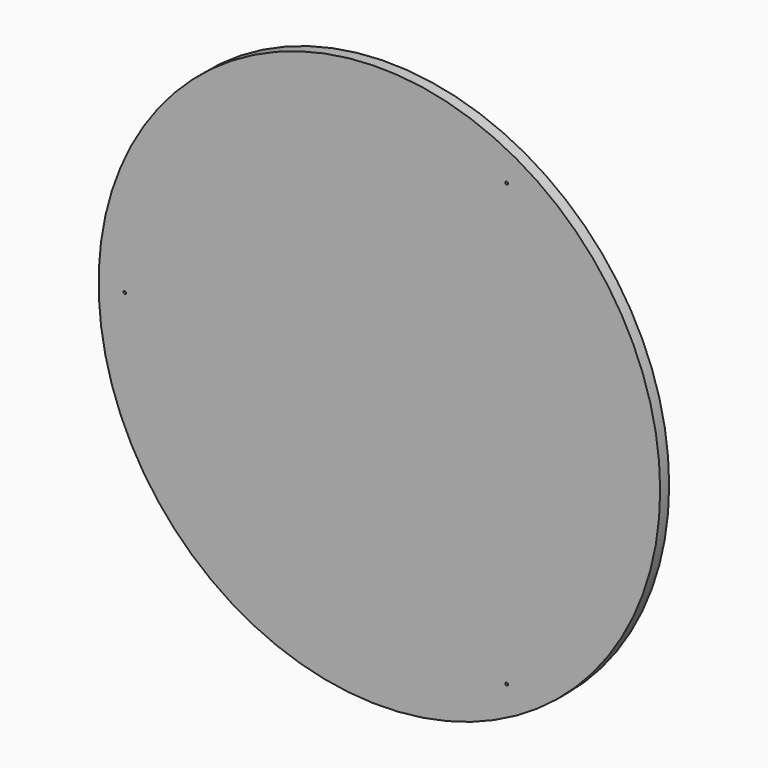
from build123d import *

# Parameters (mm, degrees)
F0_R     = 75
F0_R_2   = 0.35
F1_DEPTH = 3


with BuildPart() as f1:
    # F0 (on Front) → F1 (new body)
    with BuildSketch(Plane.XZ):
        with Locations((-32.77367, 12.581361)):
            Circle(F0_R)
        with Locations((1.22633, -46.308367)):
            Circle(F0_R_2, mode=Mode.SUBTRACT)
        with Locations((-100.77367, 12.581361)):
            Circle(F0_R_2, mode=Mode.SUBTRACT)
        with Locations((1.22633, 71.471088)):
            Circle(F0_R_2, mode=Mode.SUBTRACT)
    extrude(amount=F1_DEPTH)


solid = f1.part
